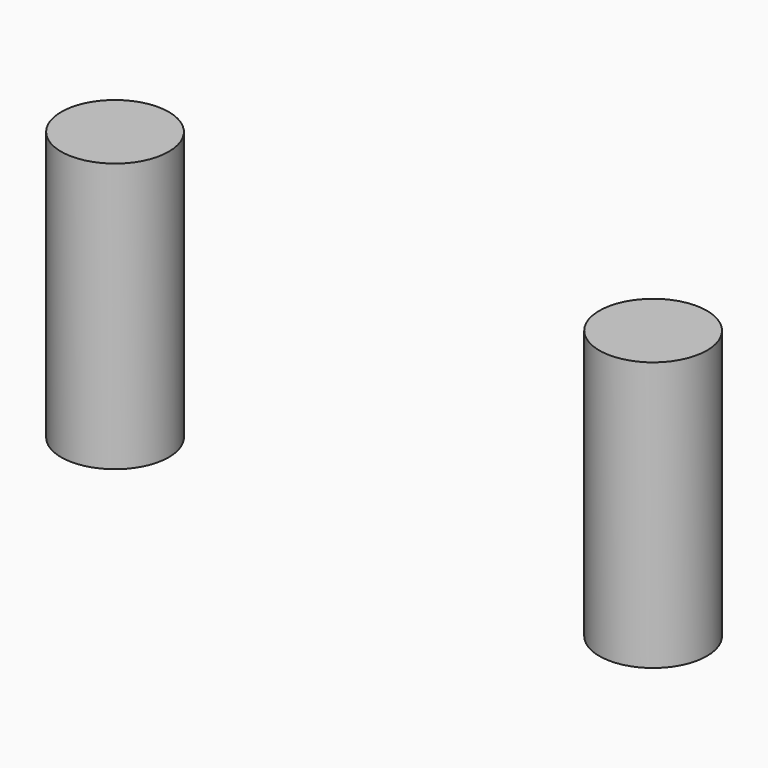
from build123d import *

# Parameters (mm, degrees)
CYLINDER001_R     = 1.2
CYLINDER001_DEPTH = 6
CYLINDER_R        = 1.2
CYLINDER_DEPTH    = 6


with BuildPart() as cylinder001:
    # Cylinder001 → Cylinder001 (new body)
    with BuildSketch(Plane(origin=(-6, 6.7, 0), x_dir=(1, 0, 0), z_dir=(0, 0, 1))):
        Circle(CYLINDER001_R)
    extrude(amount=CYLINDER001_DEPTH)


with BuildPart() as fusion:
    # Cylinder → Cylinder (new body)
    with BuildSketch(Plane(origin=(6, 6.7, 0), x_dir=(1, 0, 0), z_dir=(0, 0, 1))):
        Circle(CYLINDER_R)
    extrude(amount=CYLINDER_DEPTH)

    # Fusion: union Cylinder001
    add(cylinder001.part)


solid = fusion.part
